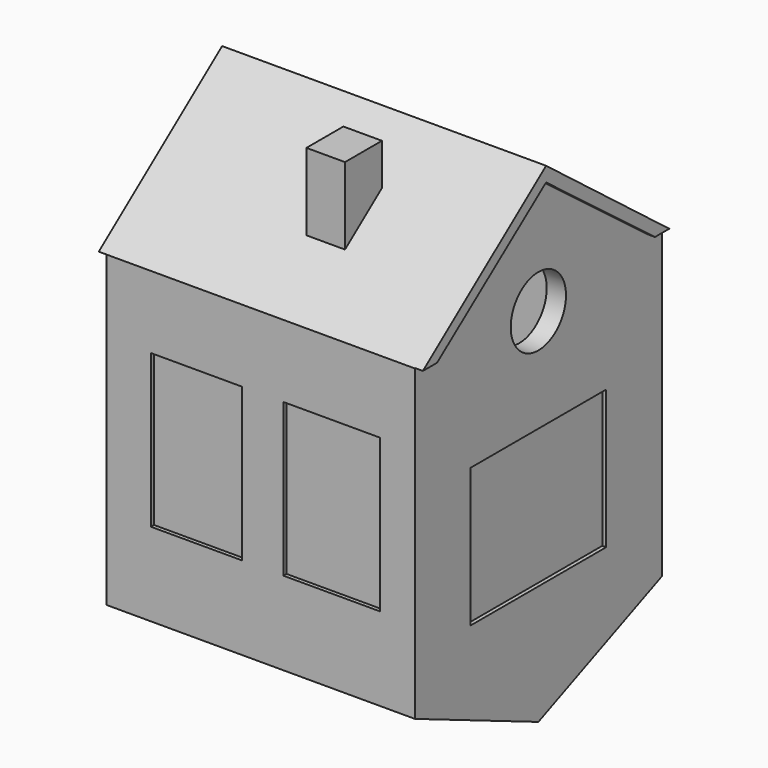
from build123d import *

# Parameters (mm, degrees)
F1_W      = 40
F1_H      = 40
F2_DEPTH  = 40
F5_DEPTH  = 40
F6_T      = -2.5
F4_W      = 22
F4_H      = 18
F7_DEPTH  = 0.5
F8_DEPTH  = 40
F9_W      = 35
F9_H      = 35
F10_DEPTH = 25
F11_W     = 22
F11_H     = 18
F12_DEPTH = 2.5
F13_W     = 5.9888265096
F13_H     = 10.6466971338
F14_DEPTH = 5
F15_DEPTH = 5
F17_DEPTH = 1
F18_W     = 9.2321382836
F18_H     = 9.3079488724
F18_W_2   = 12.2083812021
F18_H_2   = 12.2888814658
F18_W_3   = 13.6692405213
F18_H_3   = 15.1209759388
F19_DEPTH = 0.5
F20_DEPTH = 1
F21_W     = 9.1872019693
F21_H     = 7.9310182482
F21_W_2   = 24.7337101027
F21_H_2   = 9.711895138
F22_DEPTH = 0.5
F23_W     = 11.8269838858
F23_H     = 19.8296736926
F23_W_2   = 12.5252173748
F24_DEPTH = 0.5
F16_R     = 4.4787293466
F25_DEPTH = 2.5


with BuildPart() as f2:
    # F1 (on Top) → F2 (new body)
    with BuildSketch(Plane.XY):
        Rectangle(F1_W, F1_H)
    extrude(amount=F2_DEPTH)

    # F3 (on face) → F5 (join)
    with BuildSketch(Plane.YZ.offset(20)):
        Polygon((0, 55.334508419), (-20, 40), (20, 40), align=None)
    extrude(amount=-F5_DEPTH)

    # F6
    f6_openings = [f2.faces().sort_by_distance(p)[0] for p in [
        (0, 0, 0),
    ]]
    offset(amount=F6_T, openings=f6_openings)

    # F4 (on face) → F7 (cut)
    with BuildSketch(Plane.YZ.offset(20)):
        with Locations((0, 16)):
            Rectangle(F4_W, F4_H)
    extrude(amount=-F7_DEPTH, mode=Mode.SUBTRACT)

    # F3 (on face) → F8 (join)
    with BuildSketch(Plane.YZ.offset(20)):
        Polygon((20, 0), (-20, 0), (0, -8.4736328572), align=None)
    extrude(amount=-F8_DEPTH)

    # F9 (on Top) → F10 (cut)
    with BuildSketch(Plane.XY):
        Rectangle(F9_W, F9_H)
    extrude(amount=-F10_DEPTH, mode=Mode.SUBTRACT)

    # F11 (on face) → F12 (cut)
    with BuildSketch(Plane(origin=(0, 26.7190835157, 34.848307863), x_dir=(1, 0, 0), z_dir=(0, 0.6084609091, 0.7935838469))):
        with Locations((0.3634039909, -21.8104213327)):
            Rectangle(F11_W, F11_H)
    extrude(amount=-F12_DEPTH, mode=Mode.SUBTRACT)

    # F13 (on Right) → F14 (join)
    with BuildSketch(Plane.YZ):
        with Locations((-9.5960779581, 50.3422562033)):
            Rectangle(F13_W, F13_H)
    extrude(amount=F14_DEPTH)

    # F15 (cut): a face of the model
    f15_faces = [f2.faces().sort_by_distance(p)[0] for p in [
        (5, -7.5162341361, 45.7201312697),
    ]]
    extrude(f15_faces, amount=-F15_DEPTH, mode=Mode.SUBTRACT)

    # F16 (on face) → F17 (join)
    with BuildSketch(Plane.YZ.offset(20)):
        Polygon((0, 55.334508419), (-19.9640467717, 40.0275662541), (-17.6681634039, 40.0275662541), (0, 53.4335300326), (17.6441799849, 40.0275662541), (19.9640467717, 40.0275662541), align=None)
    extrude(amount=F17_DEPTH)

    # F18 (on face) → F19 (cut)
    with BuildSketch(Plane(origin=(-20, 0, 0), x_dir=(0, -1, 0), z_dir=(-1, 0, 0))):
        with Locations((-0.4024395021, 40.4120413586)):
            Rectangle(F18_W, F18_H)
        with Locations((8.3425419871, 25.8511127904)):
            Rectangle(F18_W_2, F18_H_2)
        with Locations((-3.3955307445, 7.5604879694)):
            Rectangle(F18_W_3, F18_H_3)
    extrude(amount=-F19_DEPTH, mode=Mode.SUBTRACT)

    # F18 (on face) → F20 (join)
    with BuildSketch(Plane(origin=(-20, 0, 0), x_dir=(0, -1, 0), z_dir=(-1, 0, 0))):
        Polygon((0, 55.334508419), (-20, 40), (-17.4968317151, 40), (0, 53.1819947064), (17.1925885671, 40), (20, 40), align=None)
    extrude(amount=F20_DEPTH)

    # F21 (on face) → F22 (cut)
    with BuildSketch(Plane(origin=(0, 20, 0), x_dir=(-1, 0, 0), z_dir=(0, 1, 0))):
        with Locations((-9.9281030707, 31.1322165653)):
            Rectangle(F21_W, F21_H)
        with Locations((2.3357556202, 15.6106483191)):
            Rectangle(F21_W_2, F21_H_2)
    extrude(amount=-F22_DEPTH, mode=Mode.SUBTRACT)

    # F23 (on face) → F24 (cut)
    with BuildSketch(Plane.XZ.offset(20)):
        with Locations((-8.3377951523, 20.714933984)):
            Rectangle(F23_W, F23_H)
        with Locations((9.1900789412, 20.714933984)):
            Rectangle(F23_W_2, F23_H)
    extrude(amount=-F24_DEPTH, mode=Mode.SUBTRACT)

    # F16 (on face) → F25 (cut)
    with BuildSketch(Plane.YZ.offset(20)):
        with Locations((0, 38.4044200182)):
            Circle(F16_R)
    extrude(amount=-F25_DEPTH, mode=Mode.SUBTRACT)


solid = f2.part
